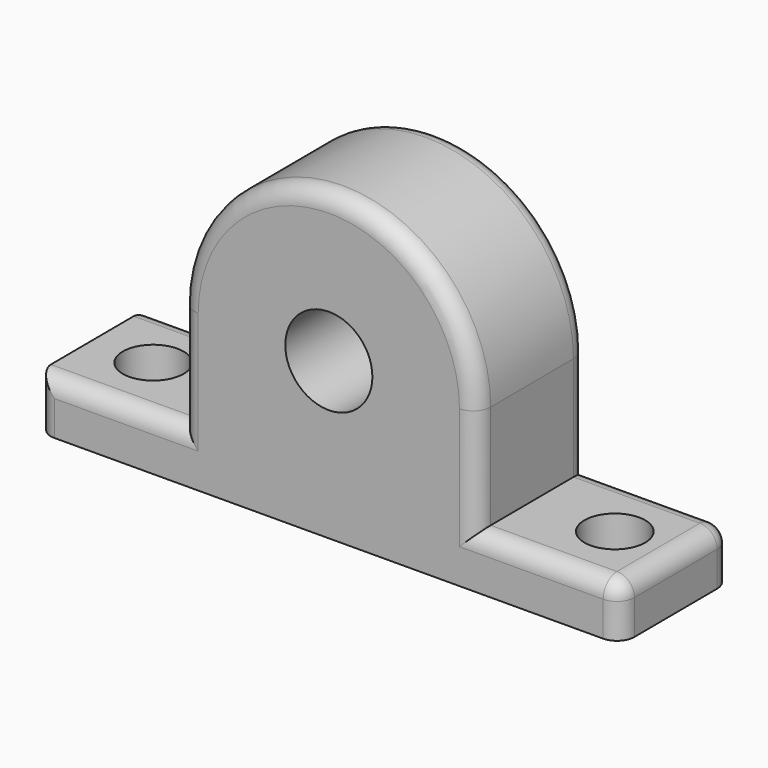
from build123d import *

# Parameters (mm, degrees)
SKETCH012_R             = 5
PAD004_DEPTH            = 16
SKETCH013_R             = 3.5
POCKET_DEPTH            = 35.001
FILLET_R                = 2
BODY003_PLACEMENT_ANGLE = 0.285111


with BuildPart() as part:
    # Sketch012 → Pad004 (new body)
    with BuildSketch(Plane.XZ):
        with BuildLine():
            Line((33.5, -18), (-33.5, -18))
            Line((-33.5, -18), (-33.5, -12))
            Line((-33.5, -12), (-17, -12))
            Line((-17, -12), (-17, 0))
            ThreePointArc((17, 0), (0, 17), (-17, 0))
            Line((17, 0), (17, -12))
            Line((17, -12), (33.5, -12))
            Line((33.5, -12), (33.5, -18))
        make_face()
        Circle(SKETCH012_R, mode=Mode.SUBTRACT)
    extrude(amount=PAD004_DEPTH)

    # Sketch013 (on Face4 of Pad004) → Pocket (cut, through all)
    with BuildSketch(Plane(origin=(0, 0, -18), x_dir=(1, 0, 0), z_dir=(0, 0, -1))):
        with Locations((-26.5, 8)):
            Circle(SKETCH013_R)
        with Locations((26.5, 8)):
            Circle(SKETCH013_R)
    extrude(amount=-POCKET_DEPTH, mode=Mode.SUBTRACT)

    # Fillet
    fillet_edges = [part.edges().sort_by_distance(p)[0] for p in [
        (0, -16, 17),
        (0, 0, 17),
        (-25.25, 0, -12),
        (-25.25, -16, -12),
        (-33.5, -16, -15),
        (-33.5, 0, -15),
        (25.25, -16, -12),
        (25.25, 0, -12),
        (33.5, 0, -15),
        (33.5, -16, -15),
        (33.5, -8, -12),
    ]]
    fillet(fillet_edges, radius=FILLET_R)


with BuildPart() as part_1:
    # Body003 placement: moved
    add(part.part.moved(Location((-6.054991, -96.20389, 26.128014))).rotate(Axis((-6.054991, -96.20389, 26.128014), (0, 0, 1)), BODY003_PLACEMENT_ANGLE))


solid = part_1.part
